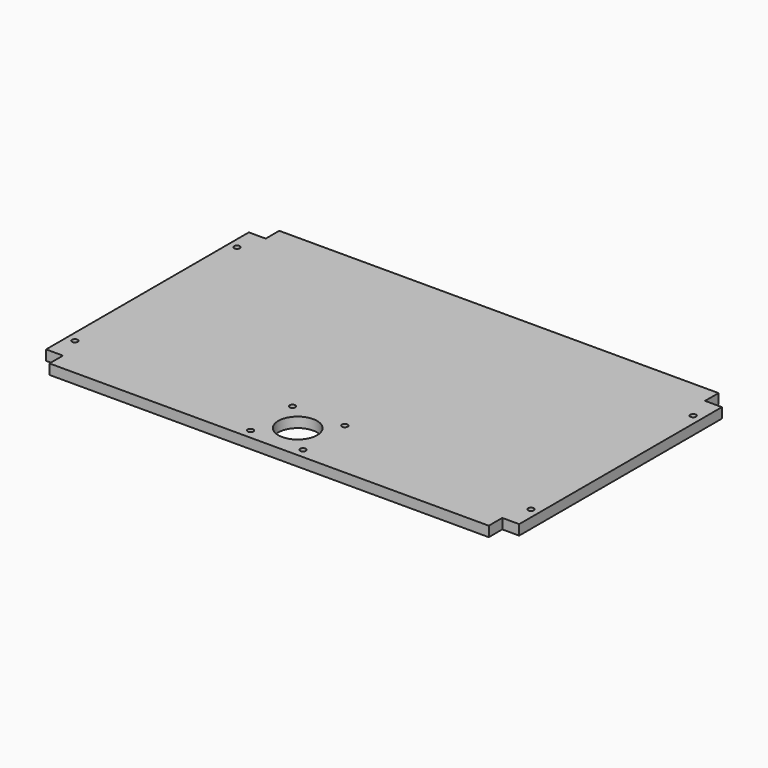
from build123d import *

# Parameters (mm, degrees)
SKETCH_W        = 280
SKETCH_H        = 170
PAD_DEPTH       = 6
SKETCH001_R     = 1.7
SKETCH001_W     = 10
SKETCH001_H     = 10
POCKET_DEPTH    = 661.244466
SKETCH002_R     = 1.7
SKETCH002_R_2   = 11.5
POCKET001_DEPTH = 6.001


with BuildPart() as part:
    # Sketch → Pad (new body)
    with BuildSketch(Plane.XY):
        Rectangle(SKETCH_W, SKETCH_H)
    extrude(amount=PAD_DEPTH)

    # Sketch001 (on Face6 of Pad) → Pocket (cut, through all)
    with BuildSketch(Plane.XY.offset(6)):
        with Locations((-135, 60)):
            Circle(SKETCH001_R)
        with Locations((135, 60)):
            Circle(SKETCH001_R)
        with Locations((-135, 80)):
            Rectangle(SKETCH001_W, SKETCH001_H)
        with Locations((135, 80)):
            Rectangle(SKETCH001_W, SKETCH001_H)
    pocket = extrude(amount=-POCKET_DEPTH, mode=Mode.SUBTRACT)

    # Mirrored: Pocket across Sketch001 H_Axis
    add(pocket.mirror(Plane(origin=(0, 0, 6), x_dir=(0, 0, 1), z_dir=(0, 1, 0))), mode=Mode.SUBTRACT)

    # Sketch002 (on Face4 of Mirrored) → Pocket001 (cut, through all)
    with BuildSketch(Plane.XY.offset(6)):
        with Locations((-15.5, -48.35)):
            Circle(SKETCH002_R)
        with Locations((15.5, -48.35)):
            Circle(SKETCH002_R)
        with Locations((15.5, -79.35)):
            Circle(SKETCH002_R)
        with Locations((-15.5, -79.35)):
            Circle(SKETCH002_R)
        with Locations((0, -63.85)):
            Circle(SKETCH002_R_2)
    extrude(amount=-POCKET001_DEPTH, mode=Mode.SUBTRACT)


solid = part.part
